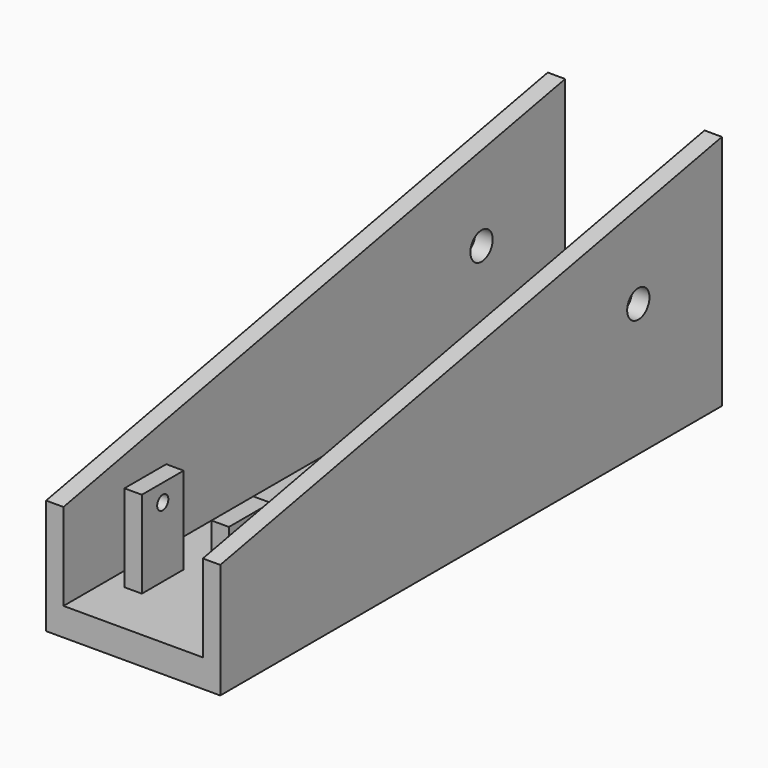
from build123d import *

# Parameters (mm, degrees)
F0_W      = 50
F0_H      = 180
F1_DEPTH  = 8
F2_R      = 4
F3_DEPTH  = 5
F4_R      = 4
F5_DEPTH  = 5
F6_W      = 5
F6_H      = 15
F7_DEPTH  = 25
F8_R      = 2
F9_DEPTH  = 5
F10_R     = 2
F11_DEPTH = 5


with BuildPart() as f1:
    # F0 (on Top) → F1 (new body)
    with BuildSketch(Plane.XY):
        with Locations((-2.453425, -15.13525)):
            Rectangle(F0_W, F0_H)
    extrude(amount=-F1_DEPTH)

    # F2 (on face) → F3 (join)
    with BuildSketch(Plane(origin=(-27.453425, 0, 0), x_dir=(0, -1, 0), z_dir=(-1, 0, 0))):
        Polygon((-74.86475, 60), (-74.86475, 0), (105.13525, 0), (105.13525, 25), align=None)
        with Locations((-44.86475, 30)):
            Circle(F2_R, mode=Mode.SUBTRACT)
    extrude(amount=-F3_DEPTH)

    # F4 (on face) → F5 (join)
    with BuildSketch(Plane.YZ.offset(22.546575)):
        Polygon((-105.13525, 25), (-105.13525, 0), (74.86475, 0), (74.86475, 60), align=None)
        with Locations((44.86475, 30)):
            Circle(F4_R, mode=Mode.SUBTRACT)
    extrude(amount=-F5_DEPTH)

    # F6 (on face) → F7 (join)
    with BuildSketch(Plane.XY):
        with Locations((-14.953425, -82.021954)):
            Rectangle(F6_W, F6_H)
        with Locations((10.046575, -82.032483)):
            Rectangle(F6_W, F6_H)
    extrude(amount=F7_DEPTH)

    # F8 (on face) → F9 (cut)
    with BuildSketch(Plane.YZ.offset(-12.453425)):
        with Locations((-82.021954, 20)):
            Circle(F8_R)
    extrude(amount=-F9_DEPTH, mode=Mode.SUBTRACT)

    # F10 (on face) → F11 (cut)
    with BuildSketch(Plane(origin=(7.546575, 0, 0), x_dir=(0, -1, 0), z_dir=(-1, 0, 0))):
        with Locations((82.021954, 20)):
            Circle(F10_R)
    extrude(amount=-F11_DEPTH, mode=Mode.SUBTRACT)


solid = f1.part
